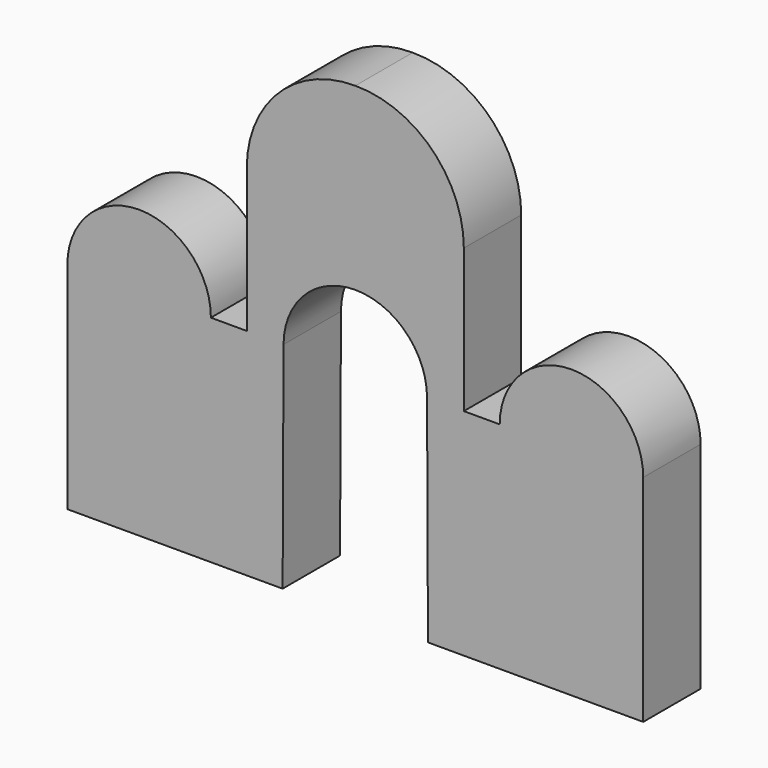
from build123d import *

# Parameters (mm, degrees)
F1_DEPTH = 25.4


with BuildPart() as f1:
    # F0 (on Front) → F1 (new body)
    with BuildSketch(Plane.XZ):
        with BuildLine():
            Line((0, 76.2), (0, 0))
            Line((0, 0), (76.2, 0))
            Line((76.2, 0), (76.519985, 76.199328))
            ThreePointArc((76.519985, 76.199328), (83.996999, 94.09085), (101.919761, 101.492666))
            ThreePointArc((101.919761, 101.492666), (119.842523, 94.09085), (127.319537, 76.199328))
            Line((127.319537, 76.199328), (127.639523, 0))
            Line((127.639523, 0), (203.839523, 0))
            Line((203.839523, 0), (203.839523, 76.2))
            ThreePointArc((203.839523, 76.2), (178.439523, 101.6), (153.039523, 76.2))
            Line((153.039523, 76.2), (140.339523, 76.2))
            Line((140.339523, 76.2), (140.339523, 127))
            ThreePointArc((140.339523, 127), (129.067, 154.053585), (101.919761, 165.098658))
            ThreePointArc((101.919761, 165.098658), (74.772523, 154.053585), (63.5, 127))
            Line((63.5, 127), (63.5, 76.2))
            Line((63.5, 76.2), (50.8, 76.2))
            ThreePointArc((50.8, 76.2), (25.4, 101.6), (0, 76.2))
        make_face()
    extrude(amount=F1_DEPTH)


solid = f1.part
